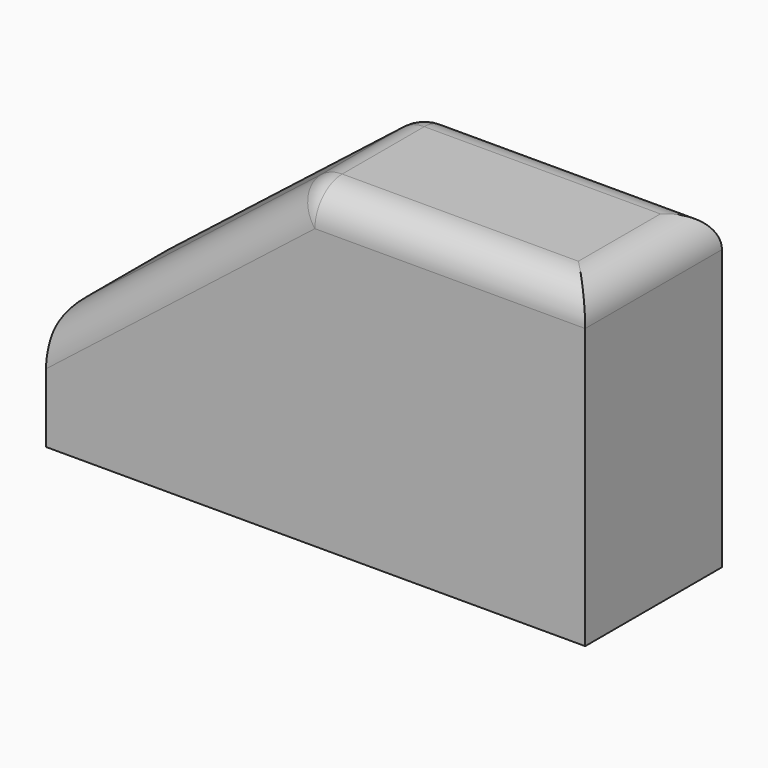
from build123d import *

# Parameters (mm, degrees)
F1_DEPTH = 25.4
F2_R     = 5.08


with BuildPart() as f1:
    # F0 (on Front) → F1 (new body)
    with BuildSketch(Plane.XZ):
        Polygon((3.789876, 28.517272), (-34.405455, -1.434462), (-34.405455, -18.126363), (45.72, -18.126363), (45.72, 28.517272), align=None)
    extrude(amount=F1_DEPTH)

    # F2
    f2_edges = [f1.edges().sort_by_distance(p)[0] for p in [
        (45.72, -12.7, 28.517272),
        (3.789876, -12.7, 28.517272),
        (24.754938, 0, 28.517272),
        (24.754938, -25.4, 28.517272),
        (-34.405455, -12.7, -1.434462),
        (-15.30779, 0, 13.541405),
        (-15.30779, -25.4, 13.541405),
    ]]
    fillet(f2_edges, radius=F2_R)


solid = f1.part
